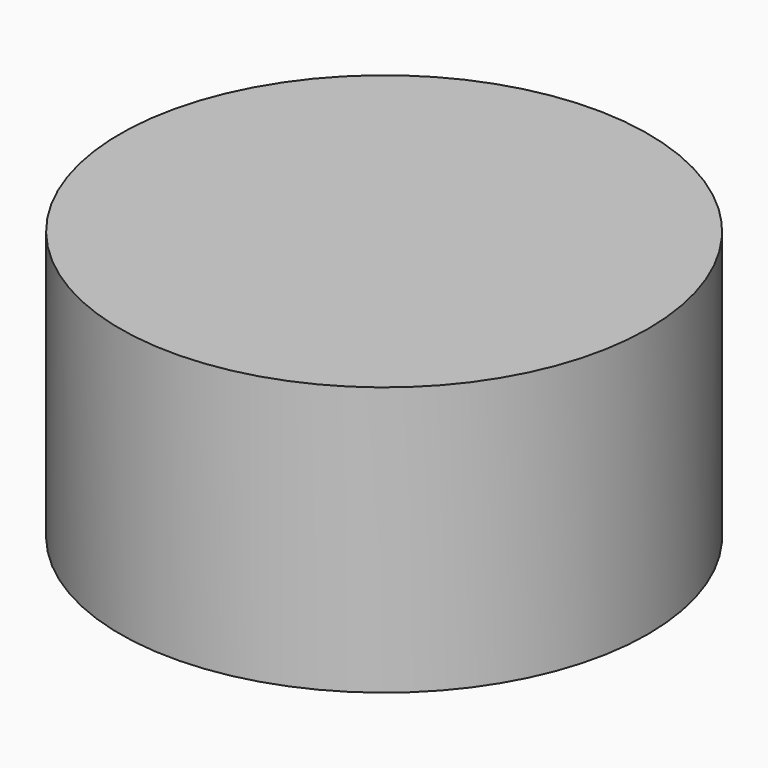
from build123d import *

# Parameters (mm, degrees)
CYLINDER_R     = 14.732
CYLINDER_DEPTH = 15


with BuildPart() as part:
    # Cylinder → Cylinder (new body)
    with BuildSketch(Plane.XY.offset(-2.5)):
        Circle(CYLINDER_R)
    extrude(amount=CYLINDER_DEPTH)


solid = part.part
